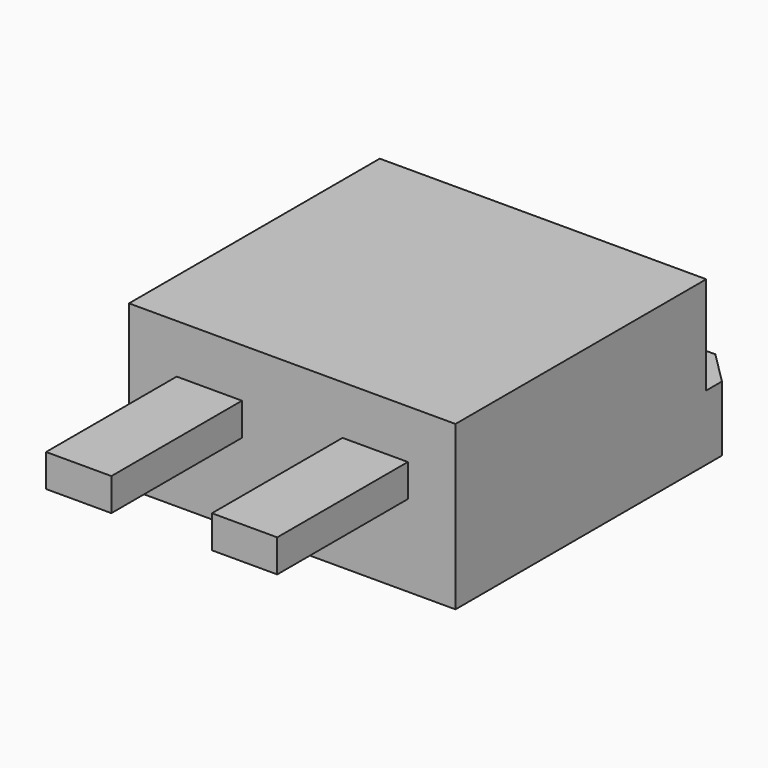
from build123d import *

# Parameters (mm, degrees)
F0_W     = 10
F0_H     = 11.2
F1_DEPTH = 5
F2_W     = 10
F2_H     = 1.6
F3_DEPTH = 3
F4_SIZE  = 1
F5_W     = 2
F5_H     = 1
F6_DEPTH = 5


with BuildPart() as f1:
    # F0 (on Top) → F1 (new body)
    with BuildSketch(Plane.XY):
        with Locations((2.165886, -0.248423)):
            Rectangle(F0_W, F0_H)
    extrude(amount=F1_DEPTH)

    # F2 (on face) → F3 (cut)
    with BuildSketch(Plane.XY.offset(5)):
        with Locations((2.165886, 4.551577)):
            Rectangle(F2_W, F2_H)
    extrude(amount=-F3_DEPTH, mode=Mode.SUBTRACT)

    # F4
    f4_edges = [f1.edges().sort_by_distance(p)[0] for p in [
        (7.165886, 5.351577, 1),
        (-2.834114, 5.351577, 1),
    ]]
    chamfer(f4_edges, length=F4_SIZE)

    # F5 (on face) → F6 (join)
    with BuildSketch(Plane.XZ.offset(5.848423)):
        with Locations((-0.374114, 3)):
            Rectangle(F5_W, F5_H)
        with Locations((4.705886, 3)):
            Rectangle(F5_W, F5_H)
    extrude(amount=F6_DEPTH)


solid = f1.part
